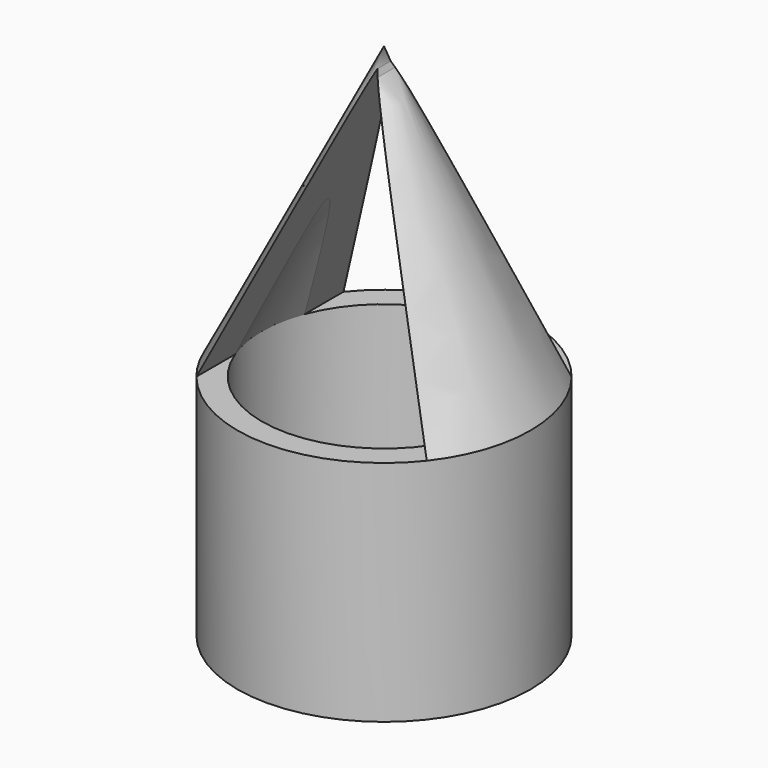
from build123d import *

# Parameters (mm, degrees)
F3_DEPTH = 25
F4_DEPTH = 25


with BuildPart() as f1:
    # F0 (on Front) → F1 (revolve)
    with BuildSketch(Plane.XZ):
        Polygon((0, 31.622777), (0, 35.721142), (-18, 0), (-18, -28), (0, -28), (0, -25), (-15, -25), (-15, 0), align=None)
    revolve(axis=Axis((0, 0, 3.311388), (0, 0, -1)))

    # F2 (on Front) → F3 (cut)
    with BuildSketch(Plane.XZ):
        Polygon((0, 33.6782), (-14.015529, 0), (14.151254, 0), align=None)
    extrude(amount=-F3_DEPTH, mode=Mode.SUBTRACT)

    # F2 (on Front) → F4 (cut)
    with BuildSketch(Plane.XZ):
        Polygon((0, 33.6782), (-14.015529, 0), (14.151254, 0), align=None)
    extrude(amount=F4_DEPTH, mode=Mode.SUBTRACT)


solid = f1.part
